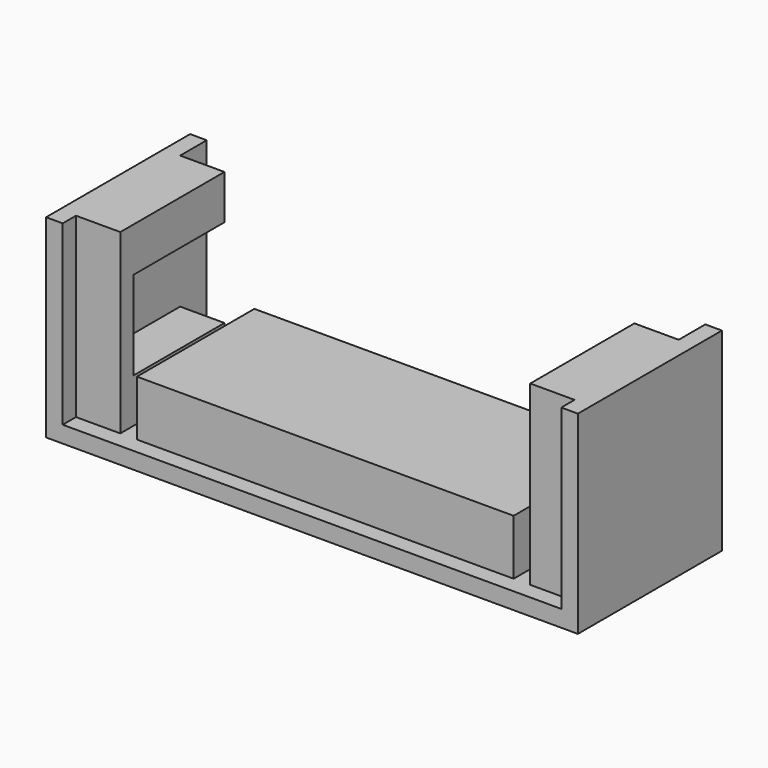
from build123d import *

# Parameters (mm, degrees)
F0_W      = 609.6
F0_H      = 206.375
F1_DEPTH  = 19.05
F2_W      = 431.8
F2_H      = 168.275
F3_DEPTH  = 63.5
F4_W      = 19.05
F4_H      = 206.375
F5_DEPTH  = 203.2
F6_W      = 50.8
F6_H      = 130.175
F7_DEPTH  = 50.8
F8_W      = 130.175
F8_H      = 50.8
F9_DEPTH  = 50.8
F10_W     = 130.175
F10_H     = 50.8
F11_DEPTH = 50.8
F12_W     = 50.8
F12_H     = 203.2
F13_DEPTH = 19.05


with BuildPart() as f1:
    # F0 (on Top) → F1 (new body)
    with BuildSketch(Plane.XY):
        with Locations((304.8, 103.1875)):
            Rectangle(F0_W, F0_H)
    extrude(amount=F1_DEPTH)

    # F2 (on face) → F3 (join)
    with BuildSketch(Plane.XY.offset(19.05)):
        with Locations((304.8, 103.1875)):
            Rectangle(F2_W, F2_H)
    extrude(amount=F3_DEPTH)

    # F4 (on face) → F5 (join)
    with BuildSketch(Plane.XY.offset(19.05)):
        with Locations((9.525, 103.1875)):
            Rectangle(F4_W, F4_H)
        with Locations((600.075, 103.1875)):
            Rectangle(F4_W, F4_H)
    extrude(amount=F5_DEPTH)

    # F6 (on face) → F7 (join)
    with BuildSketch(Plane.XY.offset(19.05)):
        with Locations((44.45, 103.1875)):
            Rectangle(F6_W, F6_H)
        with Locations((565.15, 103.1875)):
            Rectangle(F6_W, F6_H)
    extrude(amount=F7_DEPTH)

    # F8 (on face) → F9 (join)
    with BuildSketch(Plane.YZ.offset(19.05)):
        with Locations((103.1875, 196.85)):
            Rectangle(F8_W, F8_H)
    extrude(amount=F9_DEPTH)

    # F10 (on face) → F11 (join)
    with BuildSketch(Plane(origin=(590.55, 0, 0), x_dir=(0, -1, 0), z_dir=(-1, 0, 0))):
        with Locations((-103.1875, 196.85)):
            Rectangle(F10_W, F10_H)
    extrude(amount=F11_DEPTH)

    # F12 (on face) → F13 (join)
    with BuildSketch(Plane.XZ.offset(-38.1)):
        with Locations((44.45, 120.65)):
            Rectangle(F12_W, F12_H)
        with Locations((565.15, 120.65)):
            Rectangle(F12_W, F12_H)
    extrude(amount=F13_DEPTH)


solid = f1.part
